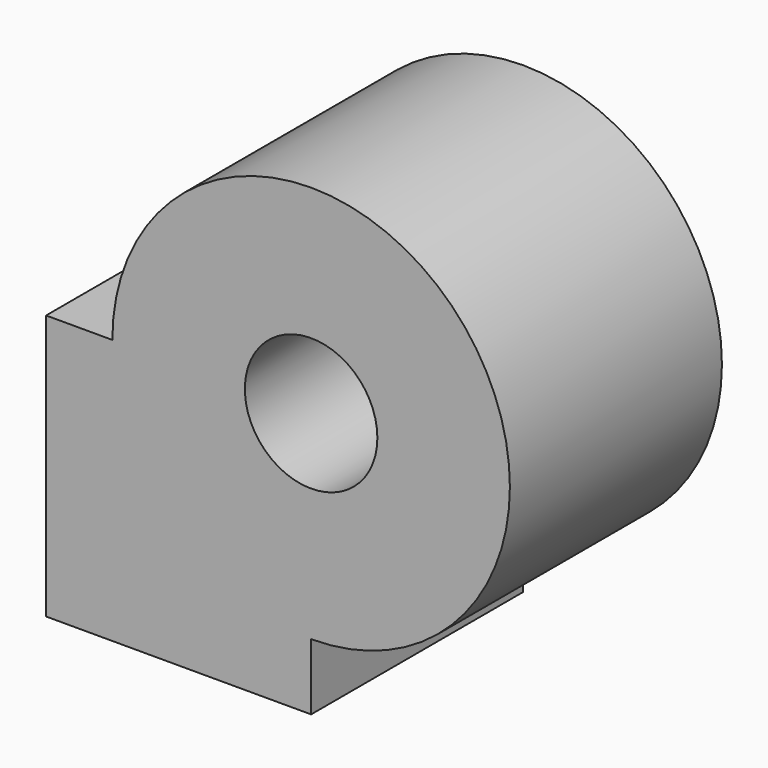
from build123d import *

# Parameters (mm, degrees)
F1_DEPTH = 25.4
F2_R     = 6.35
F3_DEPTH = 25.4


with BuildPart() as f1:
    # F0 (on Front) → F1 (new body)
    with BuildSketch(Plane.XZ):
        with BuildLine():
            Line((0, 25.4), (0, 0))
            Line((0, 0), (25.4, 0))
            Line((25.4, 0), (25.4, 6.35))
            ThreePointArc((25.4, 6.35), (38.870384, 38.870384), (6.35, 25.4))
            Line((6.35, 25.4), (0, 25.4))
        make_face()
    extrude(amount=F1_DEPTH)

    # F2 (on face) → F3 (cut)
    with BuildSketch(Plane.XZ.offset(25.4)):
        with Locations((25.4, 25.4)):
            Circle(F2_R)
    extrude(amount=-F3_DEPTH, mode=Mode.SUBTRACT)


solid = f1.part
